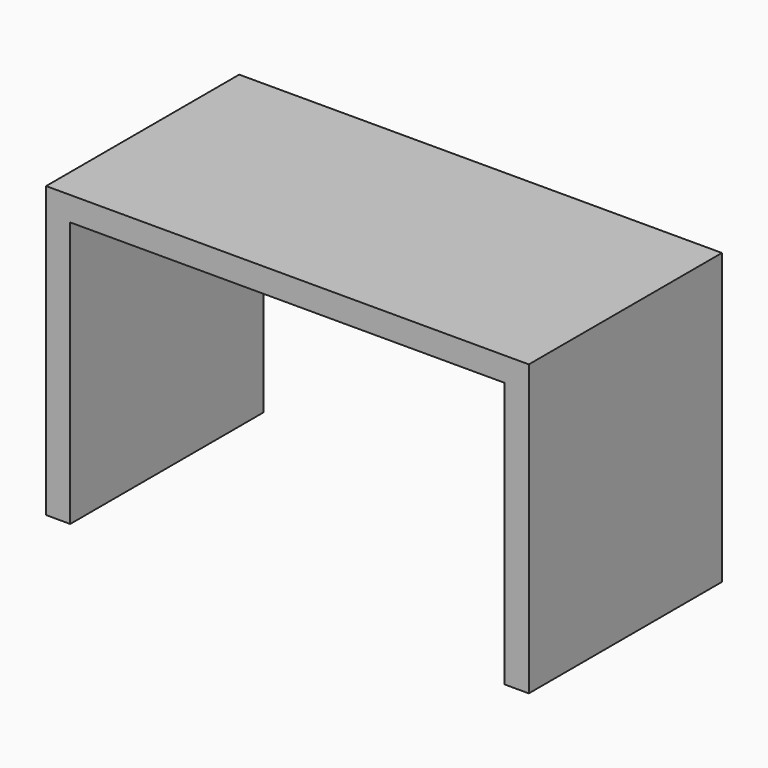
from build123d import *

# Parameters (mm, degrees)
F0_W     = 1524
F0_H     = 762
F1_DEPTH = 914.4
F2_W     = 1371.6
F2_H     = 838.2
F3_DEPTH = 762.001


with BuildPart() as f1:
    # F0 (on Top) → F1 (new body)
    with BuildSketch(Plane.XY):
        Rectangle(F0_W, F0_H)
    extrude(amount=F1_DEPTH)

    # F2 (on face) → F3 (cut, through all)
    with BuildSketch(Plane.XZ.offset(381)):
        with Locations((0, 419.1)):
            Rectangle(F2_W, F2_H)
    extrude(amount=-F3_DEPTH, mode=Mode.SUBTRACT)


solid = f1.part
